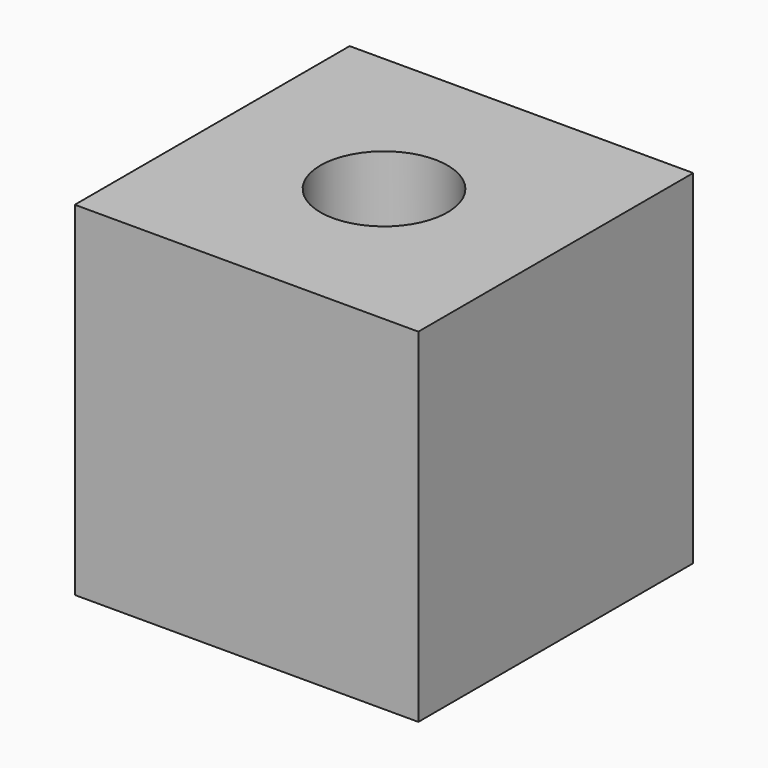
from build123d import *

# Parameters (mm, degrees)
F0_W     = 10
F0_H     = 10
F1_DEPTH = 10
F3_D     = 3.7
F3_DEPTH = 20


with BuildPart() as f1:
    # F0 (on Top) → F1 (new body)
    with BuildSketch(Plane.XY):
        Rectangle(F0_W, F0_H)
    extrude(amount=F1_DEPTH)

    # F3
    with Locations(Plane.XY.offset(10)):
        with Locations((0, 0)):
            Hole(F3_D / 2, depth=F3_DEPTH)


solid = f1.part
